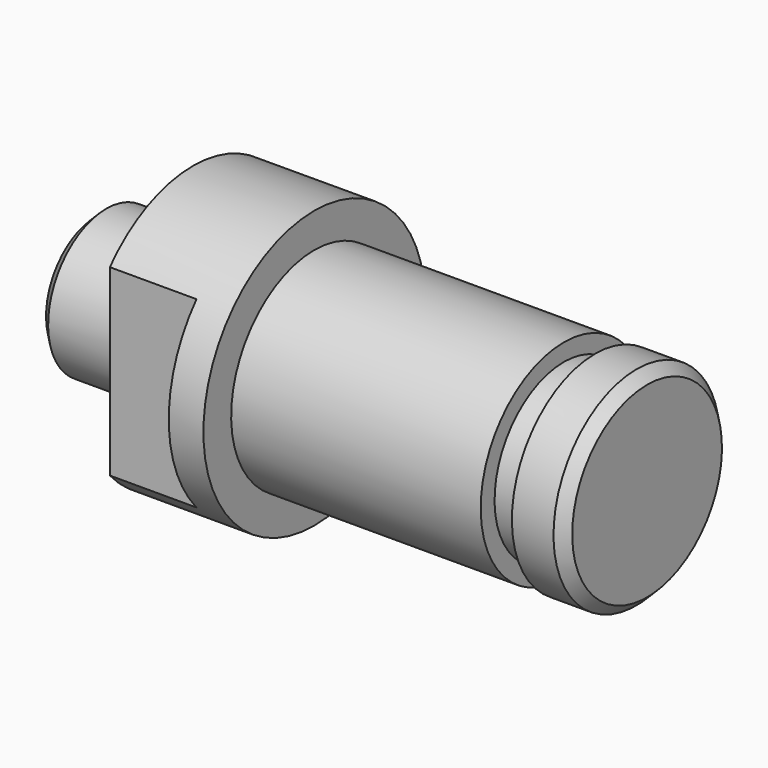
from build123d import *

# Parameters (mm, degrees)
F2_W     = 4
F2_H     = 10
F3_DEPTH = 2.5
F5_D     = 2.5
F5_DEPTH = 9.5
F5_TIP   = 0.7510757738
F6_W     = 0.9
F6_H     = 2
F8_SIZE  = 0.3


with BuildPart() as f1:
    # F0 (on Front) → F1 (revolve)
    with BuildSketch(Plane.XZ):
        Polygon((-5.9266670129, 2.1), (-5.9266670129, 0), (9.9733329871, 0), (9.9733329871, 3), (0.3733329871, 3), (0.3733329871, 4), (-3.1266670129, 4), (-3.1266670129, 2.1), align=None)
    revolve(axis=Axis((2.0233329871, 0, 0), (-1, 0, 0)))

    # F2 (on face) → F3 (cut)
    with BuildSketch(Plane(origin=(-3.1266670129, 0, 0), x_dir=(0, -1, 0), z_dir=(-1, 0, 0))):
        with Locations((5, 0)):
            Rectangle(F2_W, F2_H)
        with Locations((-5, 0)):
            Rectangle(F2_W, F2_H)
    extrude(amount=-F3_DEPTH, mode=Mode.SUBTRACT)

    # F5
    with Locations(Plane(origin=(-5.9266670129, 0, 0), x_dir=(0, -1, 0), z_dir=(-1, 0, 0))):
        with Locations((0, 0)):
            Hole(F5_D / 2, depth=F5_DEPTH)
            with Locations((0, 0, -(F5_DEPTH + F5_TIP / 2))):  # 118° drill point
                Cone(0, F5_D / 2, F5_TIP, mode=Mode.SUBTRACT)

    # F6 (on Front) → F7 (revolve, cut)
    with BuildSketch(Plane.XZ):
        with Locations((8.0233329871, 3.5)):
            Rectangle(F6_W, F6_H)
    revolve(axis=Axis((2.0233329871, 0, 0), (-1, 0, 0)), mode=Mode.SUBTRACT)

    # F8
    f8_edges = [f1.edges().sort_by_distance(p)[0] for p in [
        (9.973333, 0, -3),
        (-5.926667, 0, -2.1),
    ]]
    chamfer(f8_edges, length=F8_SIZE)


solid = f1.part
